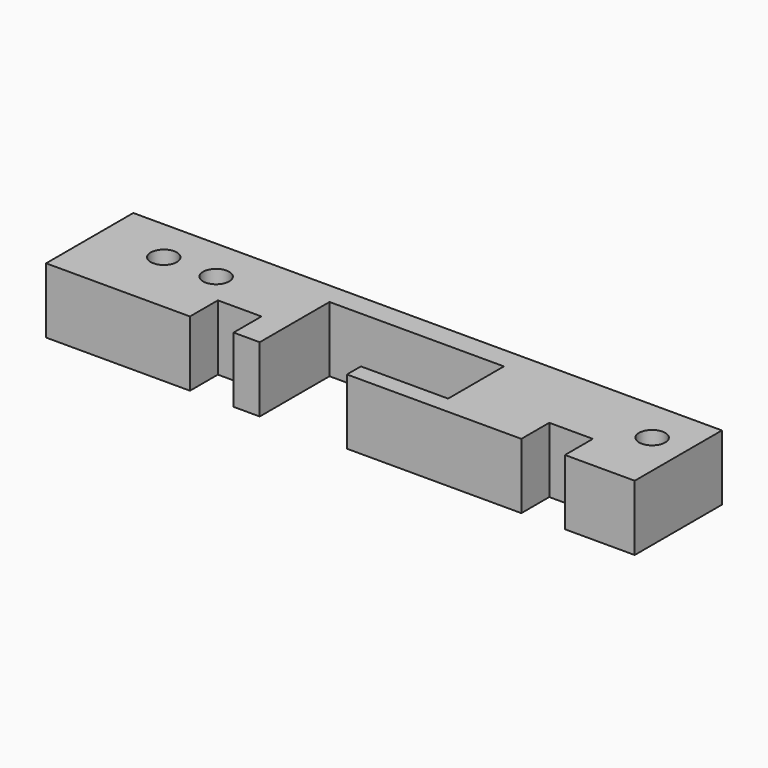
from build123d import *

# Parameters (mm, degrees)
F1_DEPTH = 15
F3_D     = 6


with BuildPart() as f1:
    # F0 (on Top) → F1 (new body)
    with BuildSketch(Plane.XY):
        Polygon((67.5, -12.5), (67.5, 12.5), (-67.5, 12.5), (-67.5, -12.5), (-34.5, -12.5), (-34.5, -4.5), (-24.5, -4.5), (-24.5, -12.5), (-18.5, -12.5), (-18.5, 7.5), (21.5, 7.5), (21.5, -8.5), (1.5, -8.5), (1.5, -12.5), (41.5, -12.5), (41.5, -4.5), (51.5, -4.5), (51.5, -12.5), align=None)
    extrude(amount=F1_DEPTH)

    # F3 (through all)
    with Locations(Plane.XY.offset(15)):
        with Locations((-52.5, 2.5), (-40.5, 2.5), (59.5, 2.5)):
            Hole(F3_D / 2)


solid = f1.part
